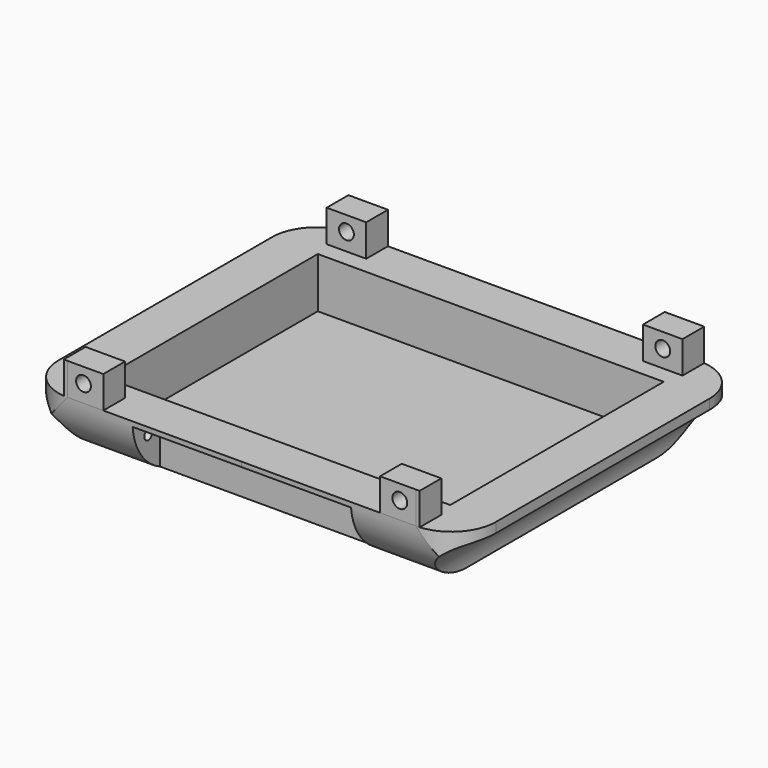
from build123d import *

# Parameters (mm, degrees)
PAD003_DEPTH               = 18
POCKET008_DEPTH            = 22.126
POCKET008_DEPTH_BACK       = 22.126
SKETCH014_W                = 27
SKETCH014_H                = 5.1
POCKET009_DEPTH            = 17.5
POCKET010_DEPTH            = 11.05
SKETCH016_R                = 0.5
POCKET011_DEPTH            = 13.5
SKETCH018_W                = 4
SKETCH018_H                = 3.25
SKETCH018_R                = 0.75
PAD004_DEPTH               = 2.75
SKETCH018_MIRRORED005_2_W  = 4
SKETCH018_MIRRORED005_2_H  = 3.25
SKETCH018_MIRRORED005_2_R  = 0.75
PAD004_MIRRORED005_2_DEPTH = 2.75
SKETCH010_W                = 70
SKETCH010_H                = 70
POCKET013_DEPTH            = 6.001
POCKET013_DEPTH_BACK       = 3.251


with BuildPart() as part:
    # Sketch009 → Pad003 (new body, symmetric)
    with BuildSketch(Plane.XZ):
        with BuildLine():
            Line((-22.125, 0), (22.125, 0))
            Line((22.125, 0), (22.125, -1))
            ThreePointArc((22.125, -1), (19.164351, -2.759027), (18, -6))
            Line((-18, -6), (18, -6))
            ThreePointArc((-18, -6), (-19.164351, -2.759027), (-22.125, -1))
            Line((-22.125, 0), (-22.125, -1))
        make_face()
    extrude(amount=PAD003_DEPTH, both=True)

    # Sketch013 → Pocket008 (cut, two sides)
    with BuildSketch(Plane.YZ) as pocket008_sk:
        with BuildLine():
            ThreePointArc((-18, 0), (-16.242641, -4.242641), (-12, -6))
            Line((-12, -6), (-18, -6))
            Line((-18, 0), (-18, -6))
        make_face()
        with BuildLine():
            ThreePointArc((12, -6), (16.242641, -4.242641), (18, 0))
            Line((18, 0), (18, -6))
            Line((12, -6), (18, -6))
        make_face()
    extrude(amount=-POCKET008_DEPTH, mode=Mode.SUBTRACT)
    extrude(pocket008_sk.sketch, amount=POCKET008_DEPTH_BACK, mode=Mode.SUBTRACT)

    # Sketch014 → Pocket009 (cut, symmetric)
    with BuildSketch(Plane.YZ):
        with Locations((0, -2.55)):
            Rectangle(SKETCH014_W, SKETCH014_H)
    pocket009 = extrude(amount=POCKET009_DEPTH, both=True, mode=Mode.SUBTRACT)

    # Sketch015 → Pocket010 (cut, symmetric)
    with BuildSketch(Plane.YZ):
        with BuildLine():
            Line((16, -0.5), (18, -0.5))
            Line((18, -0.5), (18, -6))
            Line((18, -6), (14.5, -6))
            Line((14.5, -6), (14.5, -2))
            ThreePointArc((16, -0.5), (14.93934, -0.93934), (14.5, -2))
        make_face()
    pocket010 = extrude(amount=POCKET010_DEPTH, both=True, mode=Mode.SUBTRACT)

    # Sketch016 → Pocket011 (cut, symmetric)
    with BuildSketch(Plane.YZ):
        with Locations((16, -2)):
            Circle(SKETCH016_R)
    pocket011 = extrude(amount=POCKET011_DEPTH, both=True, mode=Mode.SUBTRACT)

    # Mirrored004: Pocket009, Pocket010, Pocket011 across Sketch014 V_Axis
    add(pocket009.mirror(Plane(origin=(0, 0, 0), x_dir=(1, 0, 0), z_dir=(0, 1, 0))), mode=Mode.SUBTRACT)
    add(pocket010.mirror(Plane(origin=(0, 0, 0), x_dir=(1, 0, 0), z_dir=(0, 1, 0))), mode=Mode.SUBTRACT)
    add(pocket011.mirror(Plane(origin=(0, 0, 0), x_dir=(1, 0, 0), z_dir=(0, 1, 0))), mode=Mode.SUBTRACT)

    # Sketch018 → Pad004 (join)
    with BuildSketch(Plane.XZ.offset(-18)):
        with Locations((16, 1.625)):
            Rectangle(SKETCH018_W, SKETCH018_H)
        with Locations((16, 1.75)):
            Circle(SKETCH018_R, mode=Mode.SUBTRACT)
    pad004 = extrude(amount=PAD004_DEPTH)

    # Sketch018 Mirrored005 2 → Pad004 Mirrored005 2 (add)
    with BuildSketch(Plane(origin=(0, 18, 0), x_dir=(-1, 0, 0), z_dir=(0, 1, 0))):
        with Locations((16, 1.625)):
            Rectangle(SKETCH018_MIRRORED005_2_W, SKETCH018_MIRRORED005_2_H)
        with Locations((16, 1.75)):
            Circle(SKETCH018_MIRRORED005_2_R, mode=Mode.SUBTRACT)
    pad004_mirrored005_2 = extrude(amount=-PAD004_MIRRORED005_2_DEPTH)

    # Mirrored006: Pad004, Pad004 Mirrored005 2 across XZ
    add(pad004.mirror(Plane.XZ))
    add(pad004_mirrored005_2.mirror(Plane.XZ))

    # Sketch010 → Pocket013 (cut, two sides)
    with BuildSketch(Plane.XY) as pocket013_sk:
        Rectangle(SKETCH010_W, SKETCH010_H)
        with BuildLine():
            ThreePointArc((-17.625, 18), (-20.806981, 16.681981), (-22.125, 13.5))
            Line((-22.125, 13.5), (-22.125, -13.5))
            ThreePointArc((-22.125, -13.5), (-20.806981, -16.681981), (-17.625, -18))
            Line((-17.625, -18), (17.625, -18))
            ThreePointArc((17.625, -18), (20.806981, -16.681981), (22.125, -13.5))
            Line((22.125, 13.5), (22.125, -13.5))
            ThreePointArc((22.125, 13.5), (20.806981, 16.681981), (17.625, 18))
            Line((17.625, 18), (-17.625, 18))
        make_face(mode=Mode.SUBTRACT)
    extrude(amount=-POCKET013_DEPTH, mode=Mode.SUBTRACT)
    extrude(pocket013_sk.sketch, amount=POCKET013_DEPTH_BACK, mode=Mode.SUBTRACT)


solid = part.part
